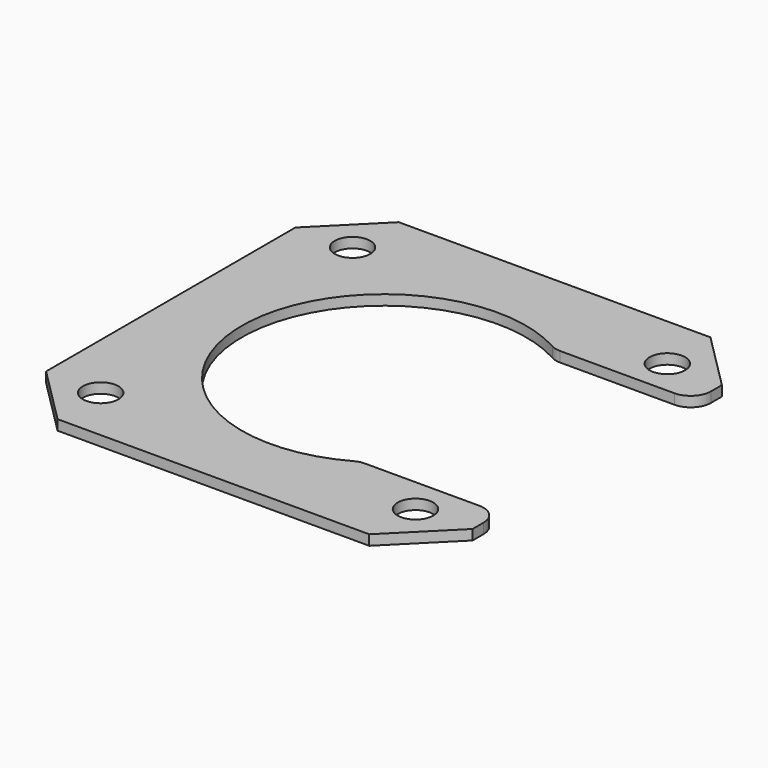
from build123d import *

# Parameters (mm, degrees)
F0_R     = 1.75
F0_R_2   = 14
F1_DEPTH = 1
F2_W     = 21
F2_H     = 24
F3_DEPTH = 1.001
F4_R     = 2


with BuildPart() as f1:
    # F0 (on Top) → F1 (new body)
    with BuildSketch(Plane.XY):
        Polygon((15.3431457505, 21), (-15.3431457505, 21), (-21, 15.3431457505), (-21, -15.3431457505), (-15.3431457505, -21), (15.3431457505, -21), (21, -15.3431457505), (21, 15.3431457505), align=None)
        with Locations((-15.5, -15.5)):
            Circle(F0_R, mode=Mode.SUBTRACT)
        with Locations((15.5, -15.5)):
            Circle(F0_R, mode=Mode.SUBTRACT)
        with Locations((-15.5, 15.5)):
            Circle(F0_R, mode=Mode.SUBTRACT)
        Circle(F0_R_2, mode=Mode.SUBTRACT)
        with Locations((15.5, 15.5)):
            Circle(F0_R, mode=Mode.SUBTRACT)
    extrude(amount=F1_DEPTH)

    # F2 (on face) → F3 (cut, through all)
    with BuildSketch(Plane.XY.offset(1)):
        with Locations((10.5, 0)):
            Rectangle(F2_W, F2_H)
    extrude(amount=-F3_DEPTH, mode=Mode.SUBTRACT)

    # F4
    f4_edges = [f1.edges().sort_by_distance(p)[0] for p in [
        (7.211103, 12, 0.5),
        (21, 12, 0.5),
        (21, -12, 0.5),
        (7.211103, -12, 0.5),
    ]]
    fillet(f4_edges, radius=F4_R)


solid = f1.part
